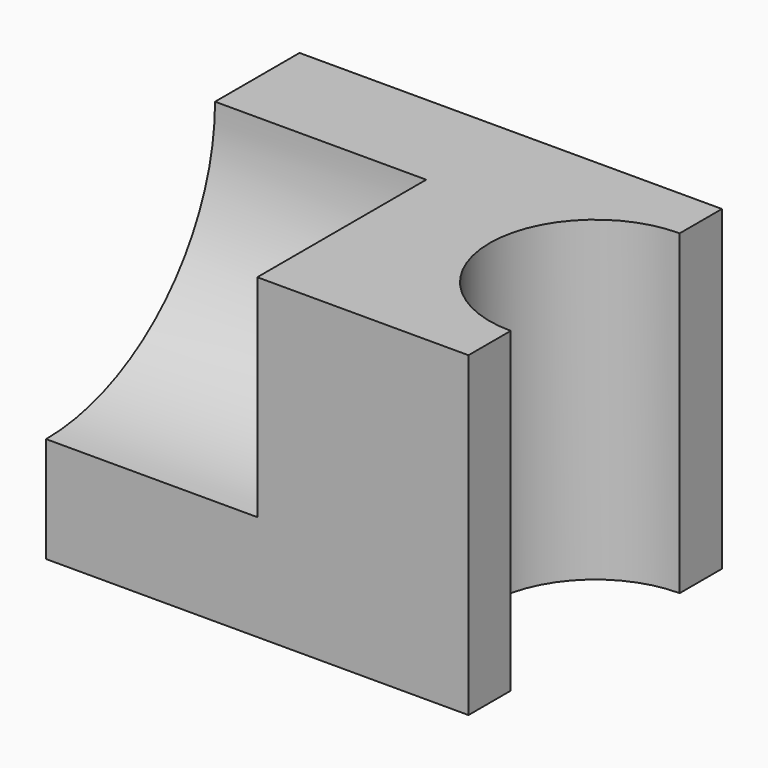
from build123d import *

# Parameters (mm, degrees)
F0_W     = 101.6
F0_H     = 76.2
F1_DEPTH = 76.2
F3_DEPTH = 76.201
F5_DEPTH = 50.8


with BuildPart() as f1:
    # F0 (on Front) → F1 (new body)
    with BuildSketch(Plane.XZ):
        with Locations((21.473836, 21.002229)):
            Rectangle(F0_W, F0_H)
    extrude(amount=F1_DEPTH)

    # F2 (on face) → F3 (cut, through all)
    with BuildSketch(Plane.XY.offset(59.102229)):
        with BuildLine():
            Line((72.273836, -63.5), (72.273836, -12.7))
            ThreePointArc((72.273836, -12.7), (46.873836, -38.1), (72.273836, -63.5))
        make_face()
    extrude(amount=-F3_DEPTH, mode=Mode.SUBTRACT)

    # F4 (on face) → F5 (cut)
    with BuildSketch(Plane(origin=(-29.326164, 0, 0), x_dir=(0, -1, 0), z_dir=(-1, 0, 0))):
        with BuildLine():
            Line((76.2, 59.102229), (25.4, 59.102229))
            ThreePointArc((25.4, 59.102229), (40.278976, 23.181204), (76.2, 8.302229))
            Line((76.2, 8.302229), (76.2, 59.102229))
        make_face()
    extrude(amount=-F5_DEPTH, mode=Mode.SUBTRACT)


solid = f1.part
